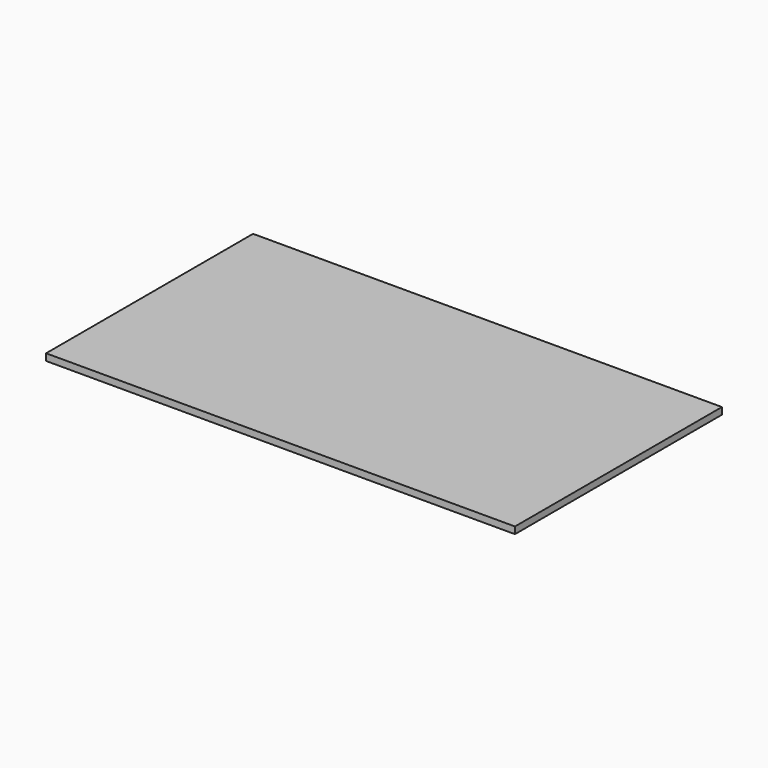
from build123d import *

# Parameters (mm, degrees)
BOX_W     = 14.5
BOX_H     = 8
BOX_DEPTH = 0.21


with BuildPart() as part:
    # Box → Box (new body)
    with BuildSketch(Plane.XY):
        with Locations((7.25, 4)):
            Rectangle(BOX_W, BOX_H)
    extrude(amount=BOX_DEPTH)


solid = part.part
